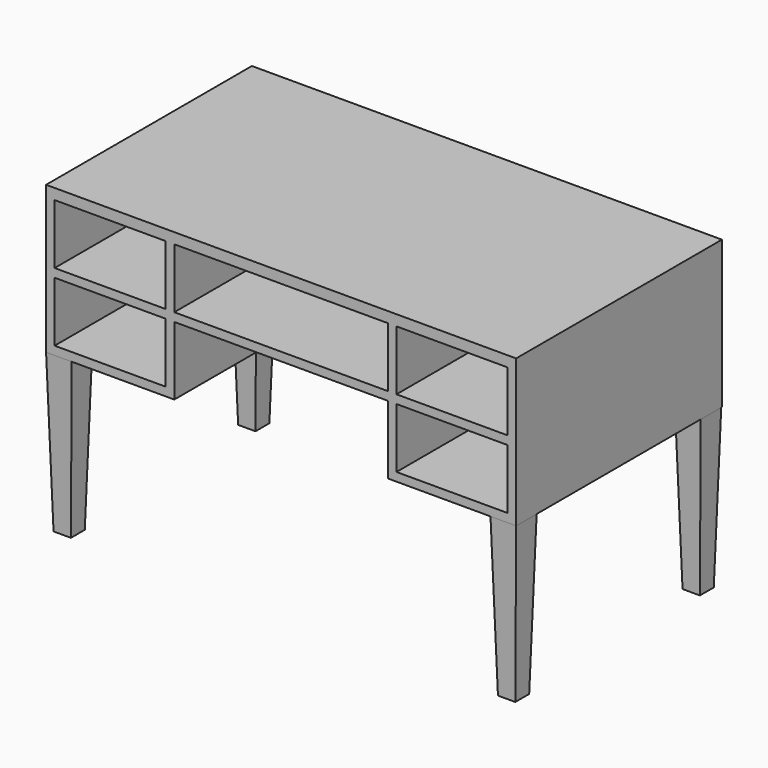
from build123d import *

# Parameters (mm, degrees)
F0_W     = 259.929892
F0_H     = 140
F0_W_2   = 260
F0_W_3   = 500
F2_DEPTH = 600
F3_DEPTH = 2
F4_W     = 60
F4_H     = 60
F5_W     = 60
F5_H     = 60
F6_DEPTH = 370
F6_TAPER = 1.5


with BuildPart() as f2:
    # F0 (on Front) → F2 (new body)
    with BuildSketch(Plane.XZ):
        Polygon((550, 172.5), (-550, 172.5), (-550, -172.5), (-500.11901, -172.5), (-250, -172.5), (-250, -12.5), (250, -12.5), (250, -172.5), (490, -172.5), (550, -172.5), align=None)
        with Locations((-400.035054, -82.5)):
            Rectangle(F0_W, F0_H, mode=Mode.SUBTRACT)
        with Locations((400, -82.5)):
            Rectangle(F0_W_2, F0_H, mode=Mode.SUBTRACT)
        with Locations((-400, 77.5)):
            Rectangle(F0_W_2, F0_H, mode=Mode.SUBTRACT)
        with Locations((0, 77.5)):
            Rectangle(F0_W_3, F0_H, mode=Mode.SUBTRACT)
        with Locations((400, 77.5)):
            Rectangle(F0_W_2, F0_H, mode=Mode.SUBTRACT)
    extrude(amount=F2_DEPTH)

    # F1 (on Front) → F3 (join)
    with BuildSketch(Plane.XZ):
        Polygon((550, -172.5), (550, 172.5), (-550, 172.5), (-550, -172.5), (-250, -172.5), (-250, -12.5), (250, -12.5), (250, -172.5), align=None)
    extrude(amount=-F3_DEPTH)

    # F4 (on face) + F5 (on face) → F6 (join)
    with BuildSketch(Plane(origin=(0, 0, -172.5), x_dir=(1, 0, 0), z_dir=(0, 0, -1))):
        with Locations((-520, 570)):
            Rectangle(F4_W, F4_H)
        with Locations((-520, 30)):
            Rectangle(F4_W, F4_H)
    with BuildSketch(Plane(origin=(0, 0, -172.5), x_dir=(1, 0, 0), z_dir=(0, 0, -1))):
        with Locations((520, 570)):
            Rectangle(F5_W, F5_H)
        with Locations((520, 30)):
            Rectangle(F5_W, F5_H)
    extrude(amount=F6_DEPTH, taper=F6_TAPER)


solid = f2.part
